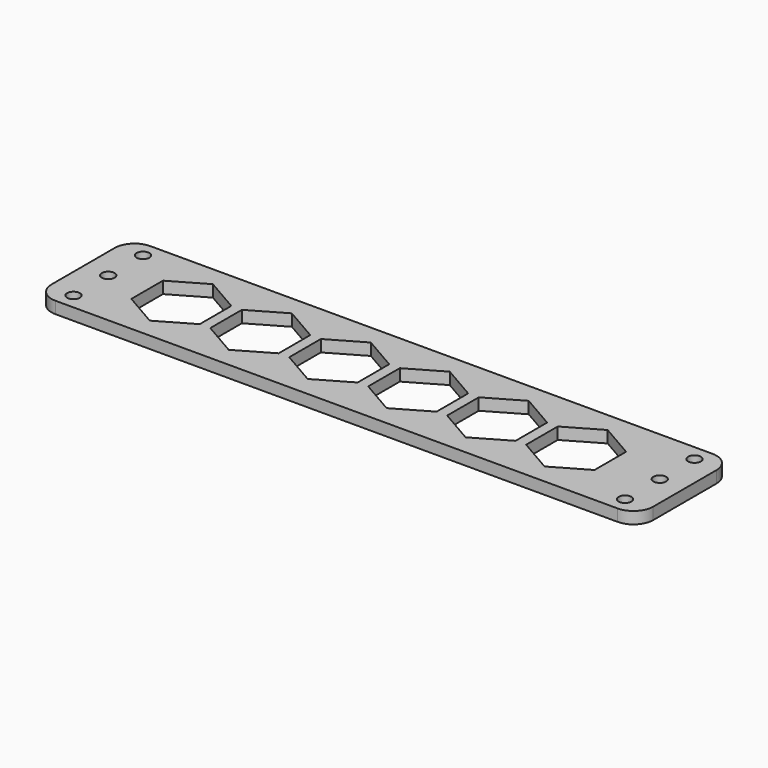
from build123d import *

# Parameters (mm, degrees)
SKETCH001_R  = 3.25
PAD_DEPTH    = 6
POCKET_DEPTH = 6


with BuildPart() as part:
    # Sketch001 → Pad (new body)
    with BuildSketch(Plane.XY):
        with BuildLine():
            Line((0, -10), (0, -50))
            ThreePointArc((0, -50), (2.928932, -57.071068), (10, -60))
            Line((10, -60), (294.8, -60))
            ThreePointArc((294.8, -60), (301.871068, -57.071068), (304.8, -50))
            Line((304.8, -50), (304.8, -10))
            ThreePointArc((304.8, -10), (301.871068, -2.928932), (294.8, 0))
            Line((294.8, 0), (10, 0))
            ThreePointArc((10, 0), (2.928932, -2.928932), (0, -10))
        make_face()
        with Locations((292.1, -8)):
            Circle(SKETCH001_R, mode=Mode.SUBTRACT)
        with Locations((292.1, -52)):
            Circle(SKETCH001_R, mode=Mode.SUBTRACT)
        with Locations((292.1, -30)):
            Circle(SKETCH001_R, mode=Mode.SUBTRACT)
        with Locations((12.7, -8)):
            Circle(SKETCH001_R, mode=Mode.SUBTRACT)
        with Locations((12.7, -52)):
            Circle(SKETCH001_R, mode=Mode.SUBTRACT)
        with Locations((12.7, -30)):
            Circle(SKETCH001_R, mode=Mode.SUBTRACT)
    extrude(amount=PAD_DEPTH)

    # Sketch (on Face16 of Pad) → Pocket (cut)
    with BuildSketch(Plane.XY.offset(6)):
        Polygon((187.041016, -20), (169.720508, -10), (152.4, -20), (152.4, -40), (169.720508, -50), (187.041016, -40), align=None)
        Polygon((227.041016, -20), (209.720508, -10), (192.4, -20), (192.4, -40), (209.720508, -50), (227.041016, -40), align=None)
        Polygon((267.041016, -20), (249.720508, -10), (232.4, -20), (232.4, -40), (249.720508, -50), (267.041016, -40), align=None)
        Polygon((67.041016, -20), (49.720508, -10), (32.4, -20), (32.4, -40), (49.720508, -50), (67.041016, -40), align=None)
        Polygon((107.041016, -20), (89.720508, -10), (72.4, -20), (72.4, -40), (89.720508, -50), (107.041016, -40), align=None)
        Polygon((147.041016, -20), (129.720508, -10), (112.4, -20), (112.4, -40), (129.720508, -50), (147.041016, -40), align=None)
    extrude(amount=-POCKET_DEPTH, mode=Mode.SUBTRACT)


solid = part.part
